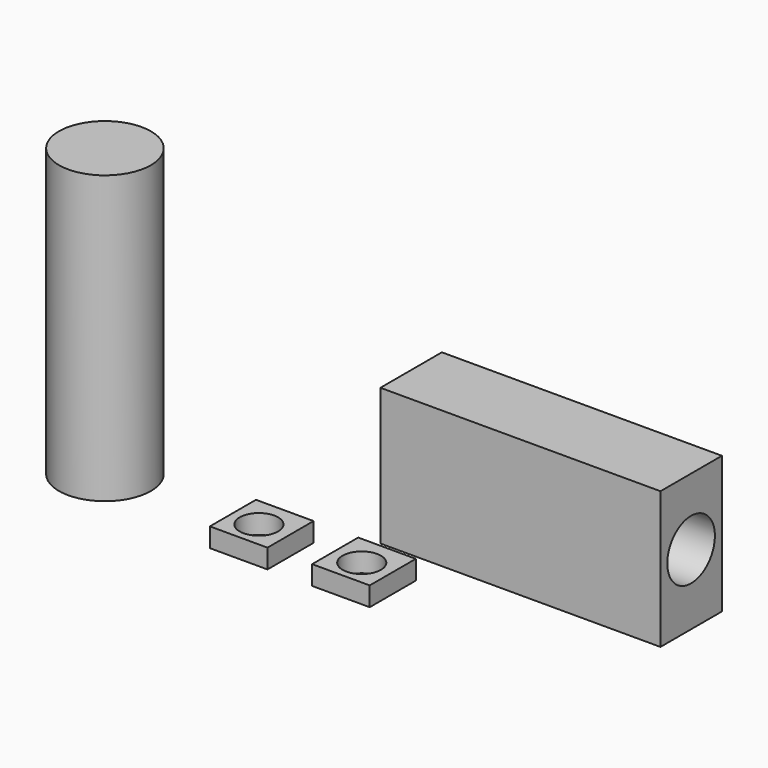
from build123d import *

# Parameters (mm, degrees)
F0_R      = 30.3936981342
F1_DEPTH  = 90.678
F0_W      = 185.2448705491
F0_H      = 50.8
F2_R      = 19.685
F3_DEPTH  = 254
F4_DEPTH  = 72.644
F5_DEPTH  = 163.449
F6_DEPTH  = 189.738
F7_W      = 38.1
F7_H      = 38.1
F8_DEPTH  = 12.7
F9_R      = 12.7
F11_DEPTH = 25.4
F10_R     = 12.7
F12_DEPTH = 25.4


with BuildPart() as f1:
    # F0 (on Top) → F1 (new body)
    with BuildSketch(Plane.XY):
        with Locations((-146.9822469854, 7.1020000799)):
            Circle(F0_R)
    extrude(amount=F1_DEPTH)

    # F4 (add): a face of the model
    f4_faces = [f1.faces().sort_by_distance(p)[0] for p in [
        (-146.9822469854, 7.1020000799, 90.678),
    ]]
    extrude(f4_faces, amount=F4_DEPTH)

    # F5 (cut): a face of the model
    f5_faces = [f1.faces().sort_by_distance(p)[0] for p in [
        (-146.9822469854, 7.1020000799, 163.322),
    ]]
    extrude(f5_faces, amount=-F5_DEPTH, mode=Mode.SUBTRACT)


with BuildPart() as f1b:
    # F0 (on Top) → F1, piece 2 (new body)
    with BuildSketch(Plane.XY):
        with Locations((105.2660896319, 60.7485641011)):
            Rectangle(F0_W, F0_H)
    extrude(amount=F1_DEPTH)

    # F2 (on face) → F3 (cut)
    with BuildSketch(Plane(origin=(12.6436543573, 0, 0), x_dir=(0, -1, 0), z_dir=(-1, 0, 0))):
        with Locations((-60.6519393623, 46.409741044)):
            Circle(F2_R)
    extrude(amount=-F3_DEPTH, mode=Mode.SUBTRACT)


with BuildPart() as f6:
    # F0 (on Top) → F6 (new body)
    with BuildSketch(Plane.XY):
        with Locations((-146.9822469854, 7.1020000799)):
            Circle(F0_R)
    extrude(amount=F6_DEPTH)


with BuildPart() as f8:
    # F7 (on Top) → F8 (new body)
    with BuildSketch(Plane.XY):
        with Locations((-33.8135628553, -4.7180391848)):
            Rectangle(F7_W, F7_H)
    extrude(amount=F8_DEPTH)

    # F9 (on face) → F11 (cut)
    with BuildSketch(Plane.XY.offset(12.7)):
        with Locations((-34.4892255962, -6.2144650146)):
            Circle(F9_R)
    extrude(amount=-F11_DEPTH, mode=Mode.SUBTRACT)


with BuildPart() as f8b:
    # F7 (on Top) → F8, piece 2 (new body)
    with BuildSketch(Plane.XY):
        with Locations((33.8135628553, -4.7180391848)):
            Rectangle(F7_W, F7_H)
    extrude(amount=F8_DEPTH)

    # F10 (on face) → F12 (cut)
    with BuildSketch(Plane.XY.offset(12.7)):
        with Locations((33.8135628553, -6.5483846702)):
            Circle(F10_R)
    extrude(amount=-F12_DEPTH, mode=Mode.SUBTRACT)


solid = Compound([f1b.part, f6.part, f8.part, f8b.part])
